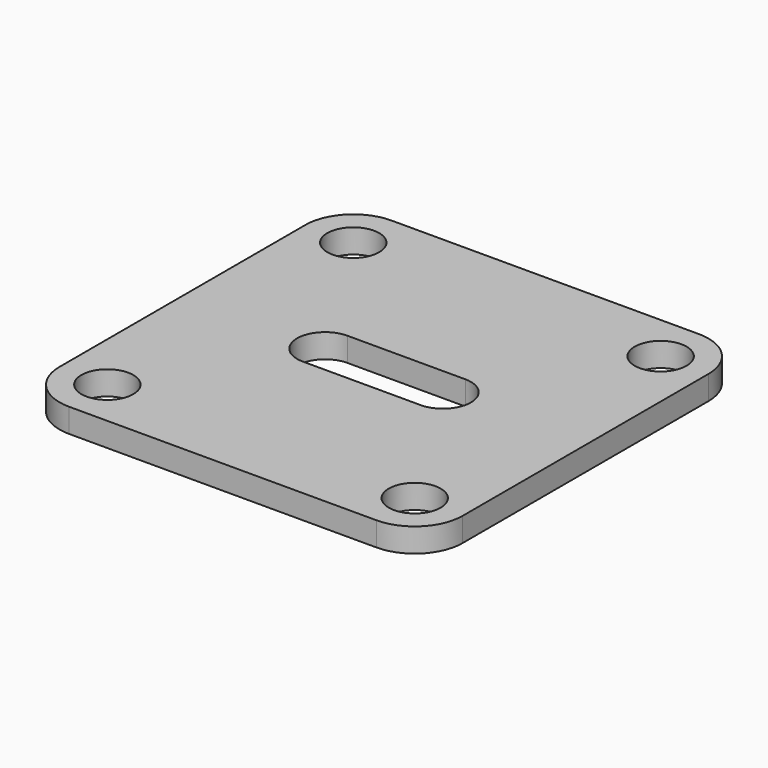
from build123d import *

# Parameters (mm, degrees)
F0_R     = 3.25
F1_DEPTH = 3


with BuildPart() as f1:
    # F0 (on Top) → F1 (new body)
    with BuildSketch(Plane.XY):
        with BuildLine():
            Line((20.452381, 24.047619), (-18.047619, 24.047619))
            ThreePointArc((-18.047619, 24.047619), (-22.29026, 22.29026), (-24.047619, 18.047619))
            Line((-24.047619, 18.047619), (-24.047619, -20.452381))
            ThreePointArc((-24.047619, -20.452381), (-22.29026, -24.695022), (-18.047619, -26.452381))
            Line((-18.047619, -26.452381), (20.452381, -26.452381))
            ThreePointArc((20.452381, -26.452381), (24.695022, -24.695022), (26.452381, -20.452381))
            Line((26.452381, -20.452381), (26.452381, 18.047619))
            ThreePointArc((26.452381, 18.047619), (24.695022, 22.29026), (20.452381, 24.047619))
        make_face()
        with Locations((-18.047619, -20.452381)):
            Circle(F0_R, mode=Mode.SUBTRACT)
        with Locations((20.452381, -20.452381)):
            Circle(F0_R, mode=Mode.SUBTRACT)
        with BuildLine():
            ThreePointArc((-6.177619, -4.702381), (-9.677619, -1.202381), (-6.177619, 2.297619))
            Line((-6.177619, 2.297619), (8.582381, 2.297619))
            ThreePointArc((8.582381, 2.297619), (12.082381, -1.202381), (8.582381, -4.702381))
            Line((8.582381, -4.702381), (-6.177619, -4.702381))
        make_face(mode=Mode.SUBTRACT)
        with Locations((-18.047619, 18.047619)):
            Circle(F0_R, mode=Mode.SUBTRACT)
        with Locations((20.452381, 18.047619)):
            Circle(F0_R, mode=Mode.SUBTRACT)
    extrude(amount=F1_DEPTH)


solid = f1.part
